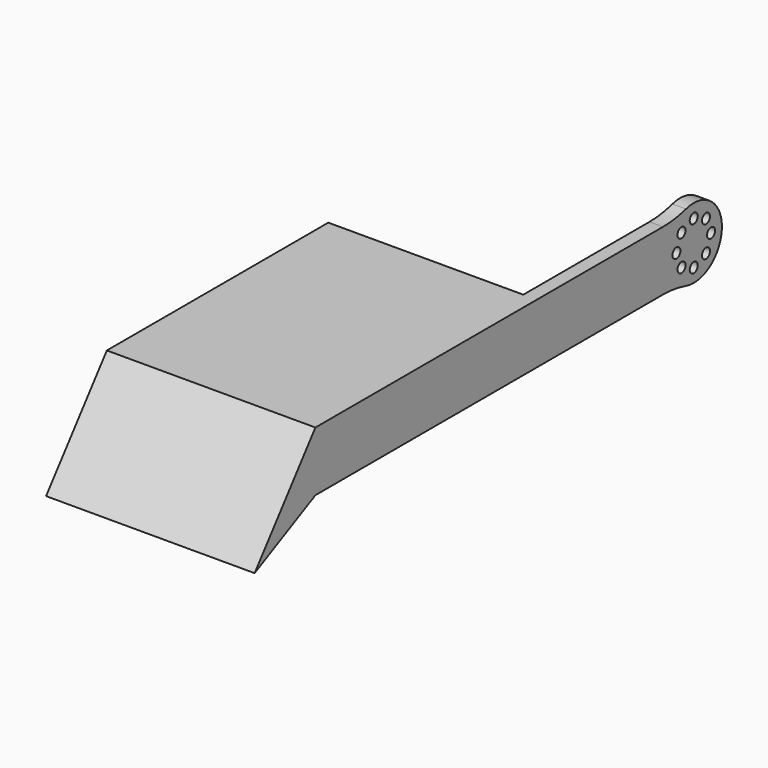
from build123d import *

# Parameters (mm, degrees)
F2_DEPTH = 76.999998
F1_R     = 1.8542
F1_R_2   = 1.849996
F3_DEPTH = 4.99999
F4_R     = 38.1
F5_R     = 38.1


with BuildPart() as f2:
    # F0 (on Right) → F2 (new body)
    with BuildSketch(Plane.YZ):
        Polygon((60.006157, 31.522735), (-42.191276, 31.522735), (-70.230425, -4.425786), (-42.191276, 9.513999), (60.018324, 9.513999), (44.03463, 20.518491), align=None)
    extrude(amount=-F2_DEPTH)

    # F1 (on Right) → F3 (join)
    with BuildSketch(Plane.YZ):
        with BuildLine():
            ThreePointArc((145.413895, 20.522193), (138.69693, 31.902865), (125.487357, 31.522735))
            ThreePointArc((125.487357, 31.522735), (119.414457, 20.515007), (125.499524, 9.513999))
            ThreePointArc((125.499524, 9.513999), (138.703221, 9.144996), (145.413895, 20.522193))
        make_face()
        with Locations((132.414175, 12.526273)):
            Circle(F1_R, mode=Mode.SUBTRACT)
        with Locations((126.760205, 14.868224)):
            Circle(F1_R, mode=Mode.SUBTRACT)
        with Locations((138.068144, 14.868224)):
            Circle(F1_R, mode=Mode.SUBTRACT)
        with Locations((124.418255, 20.522193)):
            Circle(F1_R, mode=Mode.SUBTRACT)
        with Locations((140.410095, 20.522193)):
            Circle(F1_R, mode=Mode.SUBTRACT)
        with Locations((126.760205, 26.176162)):
            Circle(F1_R, mode=Mode.SUBTRACT)
        with Locations((138.070829, 26.178848)):
            Circle(F1_R_2, mode=Mode.SUBTRACT)
        with Locations((132.414175, 28.518113)):
            Circle(F1_R, mode=Mode.SUBTRACT)
        with BuildLine():
            Line((125.487357, 31.522735), (60.006157, 31.522735))
            Line((60.006157, 31.522735), (44.03463, 20.518491))
            Line((44.03463, 20.518491), (60.018324, 9.513999))
            Line((60.018324, 9.513999), (125.499524, 9.513999))
            ThreePointArc((125.499524, 9.513999), (119.414457, 20.515007), (125.487357, 31.522735))
        make_face()
    extrude(amount=-F3_DEPTH)

    # F4
    f4_edges = [f2.edges().sort_by_distance(p)[0] for p in [
        (-2.499995, 125.487357, 31.522735),
    ]]
    fillet(f4_edges, radius=F4_R)

    # F5
    f5_edges = [f2.edges().sort_by_distance(p)[0] for p in [
        (-2.499995, 125.499524, 9.513999),
    ]]
    fillet(f5_edges, radius=F5_R)


solid = f2.part
